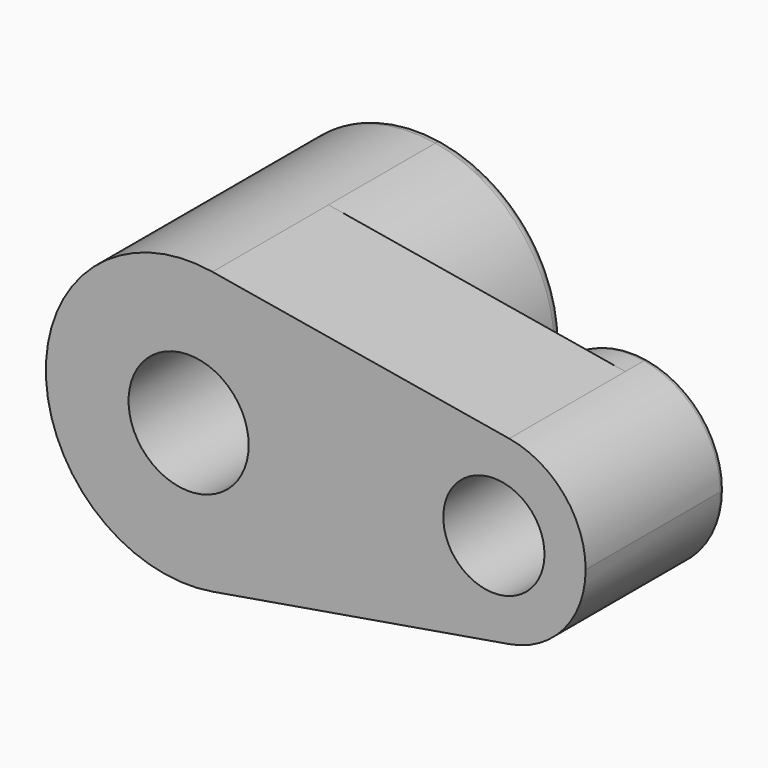
from build123d import *

# Parameters (mm, degrees)
F0_R     = 10.347631
F0_R_2   = 8.717715
F1_DEPTH = 25
F2_DEPTH = 25
F3_SIZE  = 3
F4_R     = 2
F5_DEPTH = 5
F6_R     = 1
F7_SIZE  = 2


with BuildPart() as f1:
    # F0 (on Front) → F1 (new body)
    with BuildSketch(Plane.XZ):
        with BuildLine():
            ThreePointArc((4.109595, -24.251677), (18.789865, -15.873677), (24.597411, 0))
            ThreePointArc((24.597411, 0), (18.789865, 15.873677), (4.109595, 24.251677))
            ThreePointArc((4.109595, 24.251677), (-24.597411, 0), (4.109595, -24.251677))
        make_face()
        Circle(F0_R, mode=Mode.SUBTRACT)
        with BuildLine():
            ThreePointArc((4.109595, 24.251677), (18.789865, 15.873677), (24.597411, 0))
            ThreePointArc((24.597411, 0), (18.789865, -15.873677), (4.109595, -24.251677))
            Line((4.109595, -24.251677), (55.238279, -15.58761))
            ThreePointArc((55.238279, -15.58761), (36.787036, 0), (55.238279, 15.58761))
            Line((55.238279, 15.58761), (4.109595, 24.251677))
        make_face()
        with BuildLine():
            ThreePointArc((68.406691, 0), (64.673928, 10.202704), (55.238279, 15.58761))
            ThreePointArc((55.238279, 15.58761), (36.787036, 0), (55.238279, -15.58761))
            ThreePointArc((55.238279, -15.58761), (64.673928, -10.202704), (68.406691, 0))
        make_face()
        with Locations((52.596863, 0)):
            Circle(F0_R_2, mode=Mode.SUBTRACT)
    extrude(amount=F1_DEPTH)

    # F0 (on Front) → F2 (join)
    with BuildSketch(Plane.XZ):
        with BuildLine():
            ThreePointArc((4.109595, -24.251677), (18.789865, -15.873677), (24.597411, 0))
            ThreePointArc((24.597411, 0), (18.789865, 15.873677), (4.109595, 24.251677))
            ThreePointArc((4.109595, 24.251677), (-24.597411, 0), (4.109595, -24.251677))
        make_face()
        Circle(F0_R, mode=Mode.SUBTRACT)
    extrude(amount=-F2_DEPTH)

    # F3
    f3_edges = [f1.edges().sort_by_distance(p)[0] for p in [
        (-10.347631, 25, 0),
        (43.879148, 0, 0),
    ]]
    chamfer(f3_edges, length=F3_SIZE)

    # F4
    f4_edges = [f1.edges().sort_by_distance(p)[0] for p in [
        (-4.109595, 25, 24.251677),
    ]]
    fillet(f4_edges, radius=F4_R)

    # F0 (on Front) → F5 (join)
    with BuildSketch(Plane.XZ):
        with BuildLine():
            ThreePointArc((68.406691, 0), (64.673928, 10.202704), (55.238279, 15.58761))
            ThreePointArc((55.238279, 15.58761), (36.787036, 0), (55.238279, -15.58761))
            ThreePointArc((55.238279, -15.58761), (64.673928, -10.202704), (68.406691, 0))
        make_face()
        with Locations((52.596863, 0)):
            Circle(F0_R_2, mode=Mode.SUBTRACT)
    extrude(amount=-F5_DEPTH)

    # F6
    f6_edges = [f1.edges().sort_by_distance(p)[0] for p in [
        (49.955448, 5, 15.58761),
    ]]
    fillet(f6_edges, radius=F6_R)

    # F7
    f7_edges = [f1.edges().sort_by_distance(p)[0] for p in [
        (43.879148, 5, 0),
    ]]
    chamfer(f7_edges, length=F7_SIZE)


solid = f1.part
